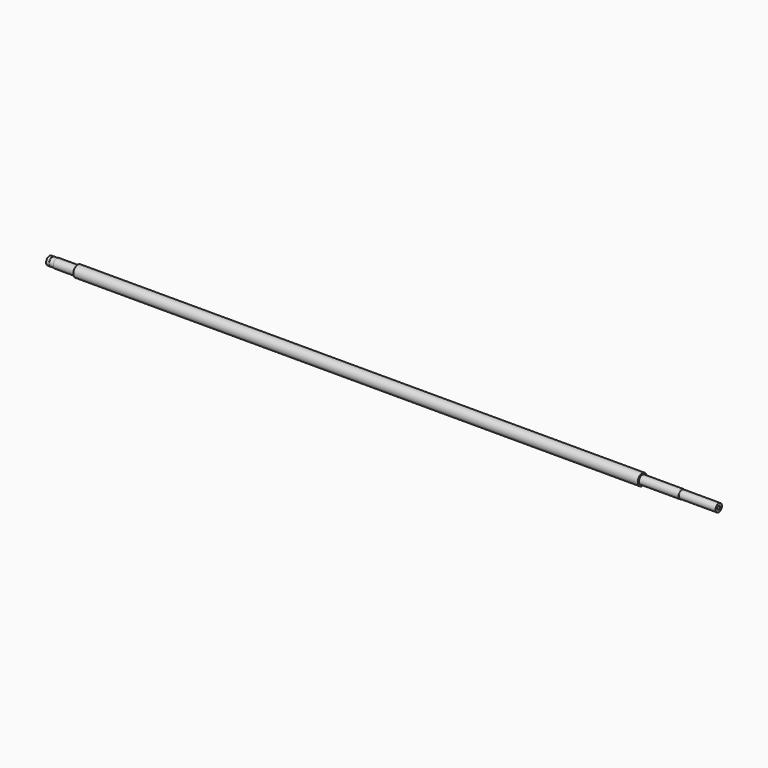
from build123d import *


with BuildPart() as f1:
    # F0 (on Front) → F1 (revolve)
    with BuildSketch(Plane.XZ):
        Polygon((0, 7.5), (0, 0), (1157.1, 0), (1157.1, 3), (1182.1, 3), (1182.1, 7), (1117.1, 7), (1117.1, 7.5), (1047.1, 7.5), (1047.1, 10), (50.1, 10), (50.1, 8), (13.1, 8), (13.1, 7.5), (6.1, 7.5), (6.1, 7.15), (5, 7.15), (5, 7.5), align=None)
    revolve(axis=Axis((578.55, 0, 0), (1, 0, 0)))


solid = f1.part
